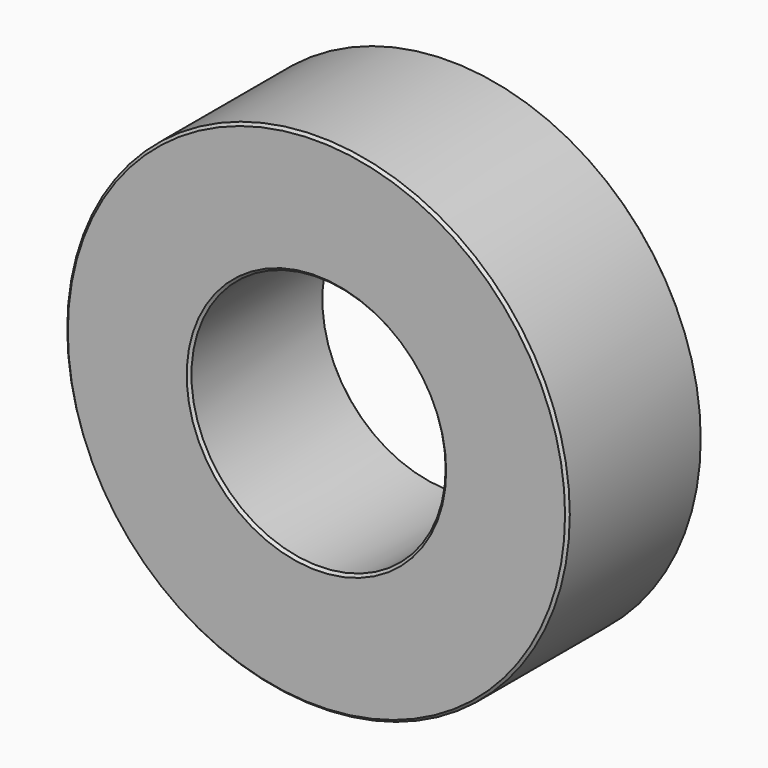
from build123d import *

# Parameters (mm, degrees)
F0_R     = 37.7825
F0_R_2   = 19.1135
F1_DEPTH = 25.4
F2_SIZE  = 0.39624


with BuildPart() as f1:
    # F0 (on Front) → F1 (new body)
    with BuildSketch(Plane.XZ):
        Circle(F0_R)
        Circle(F0_R_2, mode=Mode.SUBTRACT)
    extrude(amount=F1_DEPTH)

    # F2
    f2_edges = [f1.edges().sort_by_distance(p)[0] for p in [
        (-37.7825, -25.4, 0),
        (-19.1135, -25.4, 0),
        (-19.1135, 0, 0),
        (37.7825, -12.7, 0),
        (-37.7825, 0, 0),
    ]]
    chamfer(f2_edges, length=F2_SIZE)


solid = f1.part
